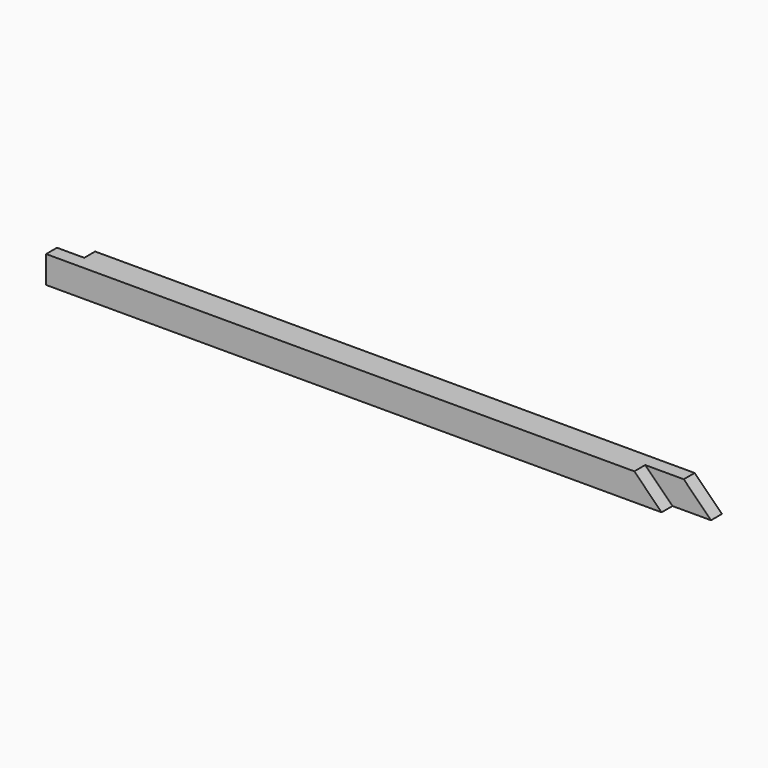
from build123d import *

# Parameters (mm, degrees)
F1_DEPTH = 50
F3_DEPTH = 25
F4_W     = 50
F4_H     = 50
F5_DEPTH = 25


with BuildPart() as f1:
    # F0 (on Front) → F1 (new body)
    with BuildSketch(Plane.XZ):
        Polygon((374.597177, 74.70942), (374.597177, 24.70942), (1574.597177, 24.70942), (1524.597177, 74.70942), align=None)
    extrude(amount=F1_DEPTH)

    # F2 (on face) → F3 (cut)
    with BuildSketch(Plane.XZ.offset(50)):
        Polygon((1503.886499, 24.70942), (1574.597177, 24.70942), (1524.597177, 74.70942), (1453.886499, 74.70942), align=None)
    extrude(amount=-F3_DEPTH, mode=Mode.SUBTRACT)

    # F4 (on face) → F5 (cut)
    with BuildSketch(Plane(origin=(0, 0, 0), x_dir=(-1, 0, 0), z_dir=(0, 1, 0))):
        with Locations((-399.597177, 49.70942)):
            Rectangle(F4_W, F4_H)
    extrude(amount=-F5_DEPTH, mode=Mode.SUBTRACT)


solid = f1.part
